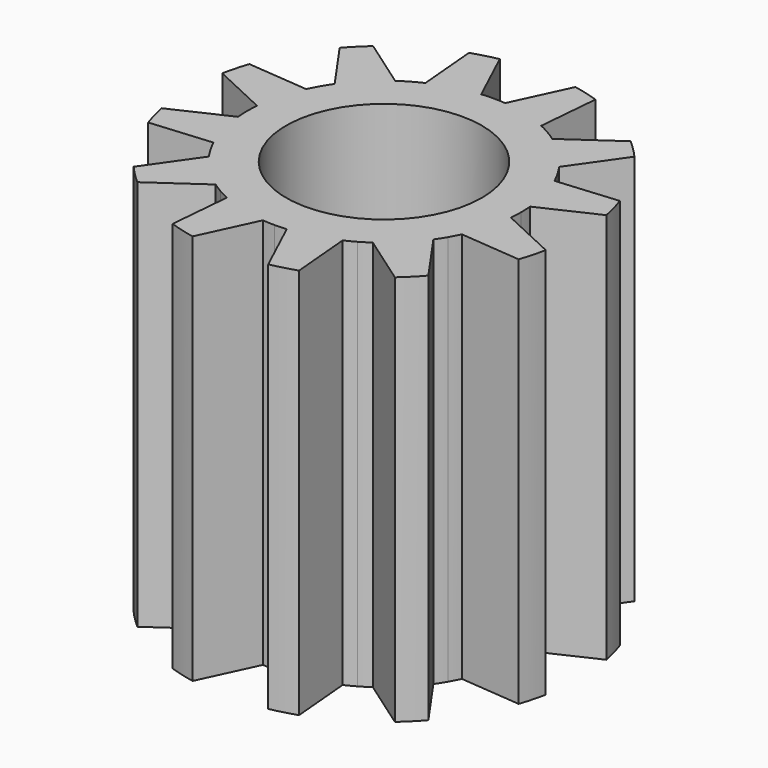
from build123d import *

# Parameters (mm, degrees)
F0_R     = 6.35
F0_R_2   = 3.175
F1_DEPTH = 12.7
F2_R     = 6.699885
F3_DEPTH = 12.7


with BuildPart() as f1:
    # F0 (on Top) → F1 (new body)
    with BuildSketch(Plane.XY):
        Circle(F0_R)
        Circle(F0_R_2, mode=Mode.SUBTRACT)
    extrude(amount=F1_DEPTH)

    # F2 (on Top) → F3 (cut, through all)
    with BuildSketch(Plane.XY):
        Circle(F2_R)
        with BuildLine():
            ThreePointArc((-4.428085, -0.387407), (-4.440769, -0.193888), (-4.445, 0))
            ThreePointArc((-4.445, 0), (-4.440769, 0.193888), (-4.428085, 0.387407))
            Line((-4.428085, 0.387407), (-6.230181, 1.227738))
            ThreePointArc((-6.230181, 1.227738), (-6.133629, 1.643501), (-6.009364, 2.051838))
            Line((-6.009364, 2.051838), (-4.028538, 1.878538))
            ThreePointArc((-4.028538, 1.878538), (-3.942763, 2.052473), (-3.849483, 2.2225))
            ThreePointArc((-3.849483, 2.2225), (-3.748875, 2.388297), (-3.641131, 2.549547))
            Line((-3.641131, 2.549547), (-4.781626, 4.178343))
            ThreePointArc((-4.781626, 4.178343), (-4.490128, 4.490128), (-4.178343, 4.781626))
            Line((-4.178343, 4.781626), (-2.549547, 3.641131))
            ThreePointArc((-2.549547, 3.641131), (-2.388297, 3.748875), (-2.2225, 3.849483))
            ThreePointArc((-2.2225, 3.849483), (-2.052473, 3.942763), (-1.878538, 4.028538))
            Line((-1.878538, 4.028538), (-2.051838, 6.009364))
            ThreePointArc((-2.051838, 6.009364), (-1.643501, 6.133629), (-1.227738, 6.230181))
            Line((-1.227738, 6.230181), (-0.387407, 4.428085))
            ThreePointArc((-0.387407, 4.428085), (-0.193888, 4.440769), (0, 4.445))
            ThreePointArc((0, 4.445), (0.193888, 4.440769), (0.387407, 4.428085))
            Line((0.387407, 4.428085), (1.227738, 6.230181))
            ThreePointArc((1.227738, 6.230181), (1.643501, 6.133629), (2.051838, 6.009364))
            Line((2.051838, 6.009364), (1.878538, 4.028538))
            ThreePointArc((1.878538, 4.028538), (2.052473, 3.942763), (2.2225, 3.849483))
            ThreePointArc((2.2225, 3.849483), (2.388297, 3.748875), (2.549547, 3.641131))
            Line((2.549547, 3.641131), (4.178343, 4.781626))
            ThreePointArc((4.178343, 4.781626), (4.490128, 4.490128), (4.781626, 4.178343))
            Line((4.781626, 4.178343), (3.641131, 2.549547))
            ThreePointArc((3.641131, 2.549547), (3.748875, 2.388297), (3.849483, 2.2225))
            ThreePointArc((3.849483, 2.2225), (3.942763, 2.052473), (4.028538, 1.878538))
            Line((4.028538, 1.878538), (6.009364, 2.051838))
            ThreePointArc((6.009364, 2.051838), (6.133629, 1.643501), (6.230181, 1.227738))
            Line((6.230181, 1.227738), (4.428085, 0.387407))
            ThreePointArc((4.428085, 0.387407), (4.440769, 0.193888), (4.445, 0))
            ThreePointArc((4.445, 0), (4.440769, -0.193888), (4.428085, -0.387407))
            Line((4.428085, -0.387407), (6.230181, -1.227738))
            ThreePointArc((6.230181, -1.227738), (6.133629, -1.643501), (6.009364, -2.051838))
            Line((6.009364, -2.051838), (4.028538, -1.878538))
            ThreePointArc((4.028538, -1.878538), (3.942763, -2.052473), (3.849483, -2.2225))
            ThreePointArc((3.849483, -2.2225), (3.748875, -2.388297), (3.641131, -2.549547))
            Line((3.641131, -2.549547), (4.781626, -4.178343))
            ThreePointArc((4.781626, -4.178343), (4.490128, -4.490128), (4.178343, -4.781626))
            Line((4.178343, -4.781626), (2.549547, -3.641131))
            ThreePointArc((2.549547, -3.641131), (2.388297, -3.748875), (2.2225, -3.849483))
            ThreePointArc((2.2225, -3.849483), (2.052473, -3.942763), (1.878538, -4.028538))
            Line((1.878538, -4.028538), (2.051838, -6.009364))
            ThreePointArc((2.051838, -6.009364), (1.643501, -6.133629), (1.227738, -6.230181))
            Line((1.227738, -6.230181), (0.387407, -4.428085))
            ThreePointArc((0.387407, -4.428085), (0.193888, -4.440769), (0, -4.445))
            ThreePointArc((0, -4.445), (-0.193888, -4.440769), (-0.387407, -4.428085))
            Line((-0.387407, -4.428085), (-1.227738, -6.230181))
            ThreePointArc((-1.227738, -6.230181), (-1.643501, -6.133629), (-2.051838, -6.009364))
            Line((-2.051838, -6.009364), (-1.878538, -4.028538))
            ThreePointArc((-1.878538, -4.028538), (-2.052473, -3.942763), (-2.2225, -3.849483))
            ThreePointArc((-2.2225, -3.849483), (-2.388297, -3.748875), (-2.549547, -3.641131))
            Line((-2.549547, -3.641131), (-4.178343, -4.781626))
            ThreePointArc((-4.178343, -4.781626), (-4.490128, -4.490128), (-4.781626, -4.178343))
            Line((-4.781626, -4.178343), (-3.641131, -2.549547))
            ThreePointArc((-3.641131, -2.549547), (-3.748875, -2.388297), (-3.849483, -2.2225))
            ThreePointArc((-3.849483, -2.2225), (-3.942763, -2.052473), (-4.028538, -1.878538))
            Line((-4.028538, -1.878538), (-6.009364, -2.051838))
            ThreePointArc((-6.009364, -2.051838), (-6.133629, -1.643501), (-6.230181, -1.227738))
            Line((-6.230181, -1.227738), (-4.428085, -0.387407))
        make_face(mode=Mode.SUBTRACT)
    extrude(amount=F3_DEPTH, mode=Mode.SUBTRACT)


solid = f1.part
